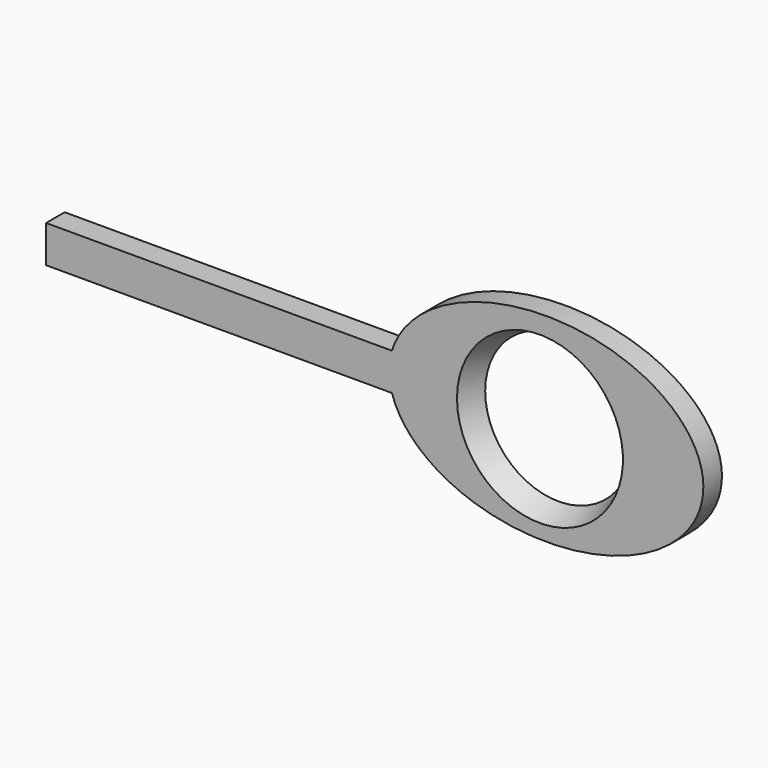
from build123d import *

# Parameters (mm, degrees)
F1_DEPTH       = 7.112
F3_D           = 12.7
F3_CSINK_D     = 50.8
F3_CSINK_ANGLE = 45


with BuildPart() as f1:
    # F0 (on Front) → F1 (new body)
    with BuildSketch(Plane.XZ):
        with BuildLine():
            Line((-19.8231451213, 6.2659345567), (-19.8231451213, 17.658546567))
            Line((-19.8231451213, 17.658546567), (-67.0514300889, 17.658546567))
            add(Edge.make_bspline(
                [(-67.0514300889, 17.658546567), (-68.7637447466, 11.9622405618), (-67.0514300889, 6.2659345567)],
                knots=[2.9534346216, 2.9534346216, 2.9534346216, 3.3297506855, 3.3297506855, 3.3297506855], degree=2, weights=[1, 0.9823504411, 1]))
            Line((-67.0514300889, 6.2659345567), (-19.8231451213, 6.2659345567))
        make_face()
        with BuildLine():
            Line((-67.0514300889, 17.658546567), (-19.8231451213, 17.658546567))
            Line((-19.8231451213, 17.658546567), (-19.8231451213, 6.2659345567))
            Line((-19.8231451213, 6.2659345567), (-67.0514300889, 6.2659345567))
            add(Edge.make_bspline(
                [(-67.0514300889, 6.2659345567), (-58.8672632891, -20.9600885806), (-15.306794391, -18.3565159637), (28.2536745071, -15.7529433469), (28.2536745071, 11.9622405618)],
                knots=[3.3297506855, 3.3297506855, 3.3297506855, 4.8064679964, 4.8064679964, 6.2831853072, 6.2831853072, 6.2831853072], degree=2, weights=[1, 0.7395743023, 1, 0.7395743023, 1]))
            add(Edge.make_bspline(
                [(28.2536745071, 11.9622405618), (28.2536745071, 39.6774244706), (-15.306794391, 42.2809970874), (-58.8672632891, 44.8845697042), (-67.0514300889, 17.658546567)],
                knots=[0, 0, 0, 1.4767173108, 1.4767173108, 2.9534346216, 2.9534346216, 2.9534346216], degree=2, weights=[1, 0.7395743023, 1, 0.7395743023, 1]))
        make_face()
        with BuildLine():
            add(Edge.make_bspline(
                [(-67.0514300889, 17.658546567), (-68.7637447466, 11.9622405618), (-67.0514300889, 6.2659345567)],
                knots=[2.9534346216, 2.9534346216, 2.9534346216, 3.3297506855, 3.3297506855, 3.3297506855], degree=2, weights=[1, 0.9823504411, 1]))
            Line((-67.0514300889, 17.658546567), (-172.9398407042, 17.658546567))
            Line((-172.9398407042, 17.658546567), (-172.9398407042, 6.2659345567))
            Line((-172.9398407042, 6.2659345567), (-67.0514300889, 6.2659345567))
        make_face()
    extrude(amount=F1_DEPTH)

    # F3 (through all)
    with Locations(Plane.XZ.offset(7.112)):
        with Locations((-21.7574704438, 11.3317836076)):
            CounterSinkHole(F3_D / 2, F3_CSINK_D / 2, counter_sink_angle=F3_CSINK_ANGLE)


solid = f1.part
